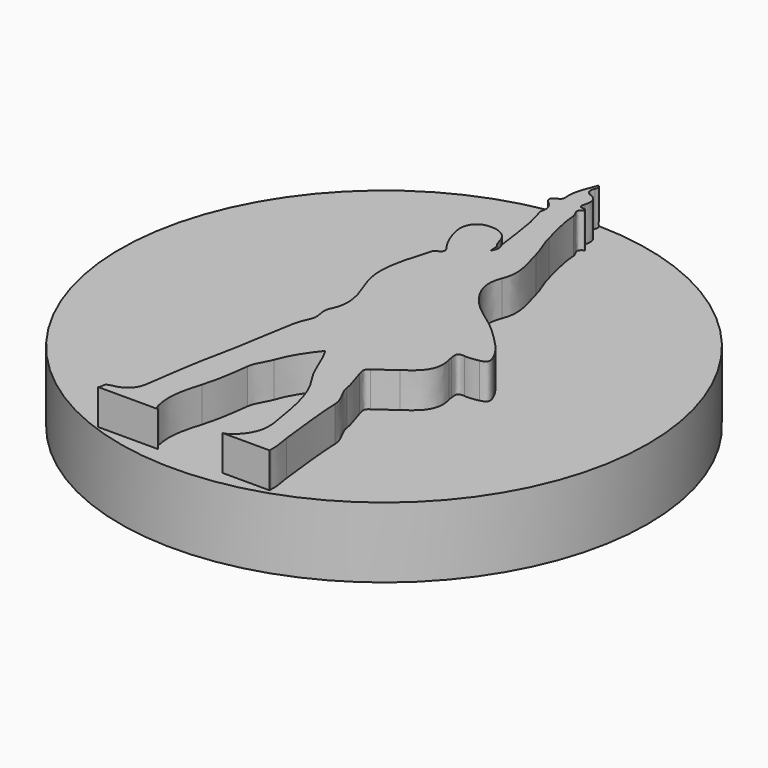
from build123d import *

# Parameters (mm, degrees)
F0_R     = 7.5
F2_DEPTH = 2
F3_DEPTH = 1


with BuildPart() as f2:
    # F0 (on Top) → F2 (new body)
    with BuildSketch(Plane.XY):
        Circle(F0_R)
    extrude(amount=-F2_DEPTH)

    # F1 (on Top) → F3 (join)
    with BuildSketch(Plane.XY):
        with BuildLine():
            add(Edge.make_bspline(
                [(-0.83979992, -6.983882), (-0.89940792, -6.96079), (-0.92292892, -6.907627), (-0.94709392, -6.805596)],
                knots=[0, 0, 0, 0, 1, 1, 1, 1], degree=3))
            add(Edge.make_bspline(
                [(-0.94709392, -6.805596), (-1.05986092, -6.331422), (-0.94870492, -5.897524), (-0.81123392, -5.451488)],
                knots=[0, 0, 0, 0, 1, 1, 1, 1], degree=3))
            add(Edge.make_bspline(
                [(-0.81123392, -5.451488), (-0.68052892, -5.027794), (-0.62382192, -4.584013), (-0.57011992, -4.143335)],
                knots=[0, 0, 0, 0, 1, 1, 1, 1], degree=3))
            add(Edge.make_bspline(
                [(-0.57011992, -4.143335), (-0.54165992, -3.910291), (-0.38571592, -3.735756), (-0.31053492, -3.522563)],
                knots=[0, 0, 0, 0, 1, 1, 1, 1], degree=3))
            add(Edge.make_bspline(
                [(-0.31053492, -3.522563), (-0.17768292, -3.145585), (0.04356008, -2.807292), (0.31527008, -2.478429)],
                knots=[0, 0, 0, 0, 1, 1, 1, 1], degree=3))
            add(Edge.make_bspline(
                [(0.31527008, -2.478429), (0.56766708, -2.880867), (0.66142308, -3.339999), (0.92756708, -3.723191)],
                knots=[0, 0, 0, 0, 1, 1, 1, 1], degree=3))
            add(Edge.make_bspline(
                [(0.92756708, -3.723191), (1.36456108, -4.35117), (1.45081008, -5.095992), (1.57755908, -5.829003)],
                knots=[0, 0, 0, 0, 1, 1, 1, 1], degree=3))
            add(Edge.make_bspline(
                [(1.57755908, -5.829003), (1.64788908, -6.236051), (1.56680908, -6.531725), (1.26607608, -6.832661)],
                knots=[0, 0, 0, 0, 1, 1, 1, 1], degree=3))
            add(Edge.make_bspline(
                [(1.26607608, -6.832661), (1.16995708, -6.928248), (1.09027808, -6.967234), (1.00048208, -6.983882)],
                knots=[0, 0, 0, 0, 1, 1, 1, 1], degree=3))
            Line((1.00048208, -6.983882), (2.33901308, -6.983882))
            add(Edge.make_bspline(
                [(2.33901308, -6.983882), (2.33277208, -6.970671), (2.32933508, -6.953809), (2.33169908, -6.927711)],
                knots=[0, 0, 0, 0, 1, 1, 1, 1], degree=3))
            add(Edge.make_bspline(
                [(2.33169908, -6.927711), (2.35298008, -6.710225), (2.28691108, -6.505949), (2.26469608, -6.295121)],
                knots=[0, 0, 0, 0, 1, 1, 1, 1], degree=3))
            add(Edge.make_bspline(
                [(2.26469608, -6.295121), (2.19455808, -5.640514), (2.10091208, -4.986228), (2.07567308, -4.329474)],
                knots=[0, 0, 0, 0, 1, 1, 1, 1], degree=3))
            add(Edge.make_bspline(
                [(2.07567308, -4.329474), (2.06407008, -4.021782), (1.82597008, -3.835644), (1.79341708, -3.548133)],
                knots=[0, 0, 0, 0, 1, 1, 1, 1], degree=3))
            add(Edge.make_bspline(
                [(1.79341708, -3.548133), (1.76817708, -3.32067), (1.65627508, -3.104041), (1.59936208, -2.878503)],
                knots=[0, 0, 0, 0, 1, 1, 1, 1], degree=3))
            add(Edge.make_bspline(
                [(1.59936208, -2.878503), (1.57109808, -2.767342), (1.49947508, -2.626323), (1.65003408, -2.545021)],
                knots=[0, 0, 0, 0, 1, 1, 1, 1], degree=3))
            add(Edge.make_bspline(
                [(1.65003408, -2.545021), (1.84711308, -2.439222), (1.99888108, -2.274365), (2.18543008, -2.156771)],
                knots=[0, 0, 0, 0, 1, 1, 1, 1], degree=3))
            add(Edge.make_bspline(
                [(2.18543008, -2.156771), (2.57766308, -1.909952), (2.87311608, -1.617602), (2.72275008, -1.096937)],
                knots=[0, 0, 0, 0, 1, 1, 1, 1], degree=3))
            add(Edge.make_bspline(
                [(2.72275008, -1.096937), (2.71114808, -1.05718), (2.71114808, -1.014756), (2.70383408, -0.973954)],
                knots=[0, 0, 0, 0, 1, 1, 1, 1], degree=3))
            add(Edge.make_bspline(
                [(2.70383408, -0.973954), (2.67966708, -0.83057), (2.66905408, -0.71567), (2.88587408, -0.743577)],
                knots=[0, 0, 0, 0, 1, 1, 1, 1], degree=3))
            add(Edge.make_bspline(
                [(2.88587408, -0.743577), (3.01295208, -0.760541), (3.14825108, -0.728538), (3.27788708, -0.70492)],
                knots=[0, 0, 0, 0, 1, 1, 1, 1], degree=3))
            add(Edge.make_bspline(
                [(3.27788708, -0.70492), (3.44059808, -0.674841), (3.51128608, -0.615013), (3.42729108, -0.418482)],
                knots=[0, 0, 0, 0, 1, 1, 1, 1], degree=3))
            add(Edge.make_bspline(
                [(3.42729108, -0.418482), (3.24547108, 0.010599), (2.89618408, 0.286067), (2.58140208, 0.597003)],
                knots=[0, 0, 0, 0, 1, 1, 1, 1], degree=3))
            add(Edge.make_bspline(
                [(2.58140208, 0.597003), (2.26362308, 0.911458), (1.84840508, 1.10392), (1.54748008, 1.440619)],
                knots=[0, 0, 0, 0, 1, 1, 1, 1], degree=3))
            add(Edge.make_bspline(
                [(1.54748008, 1.440619), (1.22365308, 1.804702), (1.00221408, 2.209944), (1.19929308, 2.695388)],
                knots=[0, 0, 0, 0, 1, 1, 1, 1], degree=3))
            add(Edge.make_bspline(
                [(1.19929308, 2.695388), (1.39711408, 3.184269), (1.17889208, 3.611507), (1.07353408, 4.055297)],
                knots=[0, 0, 0, 0, 1, 1, 1, 1], degree=3))
            add(Edge.make_bspline(
                [(1.07353408, 4.055297), (1.00831808, 4.328098), (0.86548508, 4.582643), (0.80299108, 4.855416)],
                knots=[0, 0, 0, 0, 1, 1, 1, 1], degree=3))
            add(Edge.make_bspline(
                [(0.80299108, 4.855416), (0.71352408, 5.243474), (0.58281608, 5.625264), (0.56530308, 6.026107)],
                knots=[0, 0, 0, 0, 1, 1, 1, 1], degree=3))
            add(Edge.make_bspline(
                [(0.56530308, 6.026107), (0.55961108, 6.140265), (0.36640908, 6.267207), (0.57894008, 6.381585)],
                knots=[0, 0, 0, 0, 1, 1, 1, 1], degree=3))
            add(Edge.make_bspline(
                [(0.57894008, 6.381585), (0.61471008, 6.401243), (0.55917108, 6.450651), (0.51515308, 6.449579)],
                knots=[0, 0, 0, 0, 1, 1, 1, 1], degree=3))
            add(Edge.make_bspline(
                [(0.51515308, 6.449579), (0.36855408, 6.446582), (0.38326308, 6.518535), (0.41622908, 6.625379)],
                knots=[0, 0, 0, 0, 1, 1, 1, 1], degree=3))
            add(Edge.make_bspline(
                [(0.41622908, 6.625379), (0.47025508, 6.807448), (0.44738008, 6.962105), (0.23847808, 7.044259)],
                knots=[0, 0, 0, 0, 1, 1, 1, 1], degree=3))
            add(Edge.make_bspline(
                [(0.23847808, 7.044259), (0.10488408, 7.096883), (0.05838008, 7.199245), (0.12303508, 7.343152)],
                knots=[0, 0, 0, 0, 1, 1, 1, 1], degree=3))
            add(Edge.make_bspline(
                [(0.12303508, 7.343152), (0.14268808, 7.386318), (0.17619808, 7.446779), (0.08286908, 7.515515)],
                knots=[0, 0, 0, 0, 1, 1, 1, 1], degree=3))
            add(Edge.make_bspline(
                [(0.08286908, 7.515515), (-0.01325392, 7.239497), (-0.14868492, 6.979591), (-0.13472292, 6.700357)],
                knots=[0, 0, 0, 0, 1, 1, 1, 1], degree=3))
            add(Edge.make_bspline(
                [(-0.13472292, 6.700357), (-0.12774292, 6.573634), (-0.11130892, 6.502423), (-0.23299292, 6.454088)],
                knots=[0, 0, 0, 0, 1, 1, 1, 1], degree=3))
            add(Edge.make_bspline(
                [(-0.23299292, 6.454088), (-0.40902292, 6.383729), (-0.38550092, 6.273118), (-0.27058392, 6.1784)],
                knots=[0, 0, 0, 0, 1, 1, 1, 1], degree=3))
            add(Edge.make_bspline(
                [(-0.27058392, 6.1784), (-0.13891292, 6.069384), (-0.09971192, 5.939637), (-0.13525892, 5.784238)],
                knots=[0, 0, 0, 0, 1, 1, 1, 1], degree=3))
            add(Edge.make_bspline(
                [(-0.13525892, 5.784238), (-0.14965292, 5.721412), (-0.13150092, 5.673819), (-0.11313792, 5.61938)],
                knots=[0, 0, 0, 0, 1, 1, 1, 1], degree=3))
            add(Edge.make_bspline(
                [(-0.11313792, 5.61938), (0.07696008, 5.066464), (0.10048208, 4.483277), (0.19177108, 3.912765)],
                knots=[0, 0, 0, 0, 1, 1, 1, 1], degree=3))
            add(Edge.make_bspline(
                [(0.19177108, 3.912765), (0.26479008, 3.819861), (0.24986108, 3.728579), (0.16878908, 3.565866)],
                knots=[0, 0, 0, 0, 1, 1, 1, 1], degree=3))
            add(Edge.make_bspline(
                [(0.16878908, 3.565866), (0.16019708, 3.696053), (0.15579208, 3.75995), (0.15106608, 3.823298)],
                knots=[0, 0, 0, 0, 1, 1, 1, 1], degree=3))
            add(Edge.make_bspline(
                [(0.15106608, 3.823298), (0.06772508, 3.909768), (0.04549308, 4.023925), (0.00951408, 4.132611)],
                knots=[0, 0, 0, 0, 1, 1, 1, 1], degree=3))
            add(Edge.make_bspline(
                [(0.00951408, 4.132611), (-0.07640492, 4.39392), (-0.38002392, 4.528176), (-0.70437192, 4.451933)],
                knots=[0, 0, 0, 0, 1, 1, 1, 1], degree=3))
            add(Edge.make_bspline(
                [(-0.70437192, 4.451933), (-0.92078192, 4.401453), (-1.06201092, 4.172671), (-1.02796492, 3.911693)],
                knots=[0, 0, 0, 0, 1, 1, 1, 1], degree=3))
            add(Edge.make_bspline(
                [(-1.02796492, 3.911693), (-0.99166492, 3.639112), (-0.88780792, 3.388664), (-0.74152992, 3.157434)],
                knots=[0, 0, 0, 0, 1, 1, 1, 1], degree=3))
            add(Edge.make_bspline(
                [(-0.74152992, 3.157434), (-0.65722192, 3.02458), (-0.50600292, 2.898903), (-0.78008792, 2.805146)],
                knots=[0, 0, 0, 0, 1, 1, 1, 1], degree=3))
            add(Edge.make_bspline(
                [(-0.78008792, 2.805146), (-0.81284492, 2.793874), (-0.83249792, 2.724395), (-0.84431192, 2.678424)],
                knots=[0, 0, 0, 0, 1, 1, 1, 1], degree=3))
            add(Edge.make_bspline(
                [(-0.84431192, 2.678424), (-0.90230792, 2.457698), (-0.97565992, 2.241288), (-1.03247692, 2.020369)],
                knots=[0, 0, 0, 0, 1, 1, 1, 1], degree=3))
            add(Edge.make_bspline(
                [(-1.03247692, 2.020369), (-1.15018592, 1.558763), (-1.19250192, 1.126466), (-1.02506492, 0.666042)],
                knots=[0, 0, 0, 0, 1, 1, 1, 1], degree=3))
            add(Edge.make_bspline(
                [(-1.02506492, 0.666042), (-0.85097092, 0.188131), (-0.60588392, -0.300557), (-0.86976592, -0.824466)],
                knots=[0, 0, 0, 0, 1, 1, 1, 1], degree=3))
            add(Edge.make_bspline(
                [(-0.86976592, -0.824466), (-0.97834592, -1.041069), (-0.80167392, -1.252447), (-0.89779592, -1.464567)],
                knots=[0, 0, 0, 0, 1, 1, 1, 1], degree=3))
            add(Edge.make_bspline(
                [(-0.89779592, -1.464567), (-0.96534992, -1.612983), (-1.02721192, -1.769592), (-1.05803592, -1.92928)],
                knots=[0, 0, 0, 0, 1, 1, 1, 1], degree=3))
            add(Edge.make_bspline(
                [(-1.05803592, -1.92928), (-1.20012592, -2.656704), (-1.28164392, -3.393476), (-1.44284792, -4.118975)],
                knots=[0, 0, 0, 0, 1, 1, 1, 1], degree=3))
            add(Edge.make_bspline(
                [(-1.44284792, -4.118975), (-1.59535592, -4.798278), (-1.67848192, -5.493159), (-1.78115692, -6.183746)],
                knots=[0, 0, 0, 0, 1, 1, 1, 1], degree=3))
            add(Edge.make_bspline(
                [(-1.78115692, -6.183746), (-1.82411692, -6.472653), (-1.97576392, -6.644172), (-2.25468192, -6.718065)],
                knots=[0, 0, 0, 0, 1, 1, 1, 1], degree=3))
            add(Edge.make_bspline(
                [(-2.25468192, -6.718065), (-2.34683092, -6.742445), (-2.50073392, -6.748137), (-2.49901592, -6.849094)],
                knots=[0, 0, 0, 0, 1, 1, 1, 1], degree=3))
            add(Edge.make_bspline(
                [(-2.49901592, -6.849094), (-2.49751192, -6.928033), (-2.51738092, -6.965623), (-2.54713092, -6.983882)],
                knots=[0, 0, 0, 0, 1, 1, 1, 1], degree=3))
            Line((-2.54713092, -6.983882), (-0.83979992, -6.983882))
        make_face()
    extrude(amount=F3_DEPTH)


solid = f2.part
